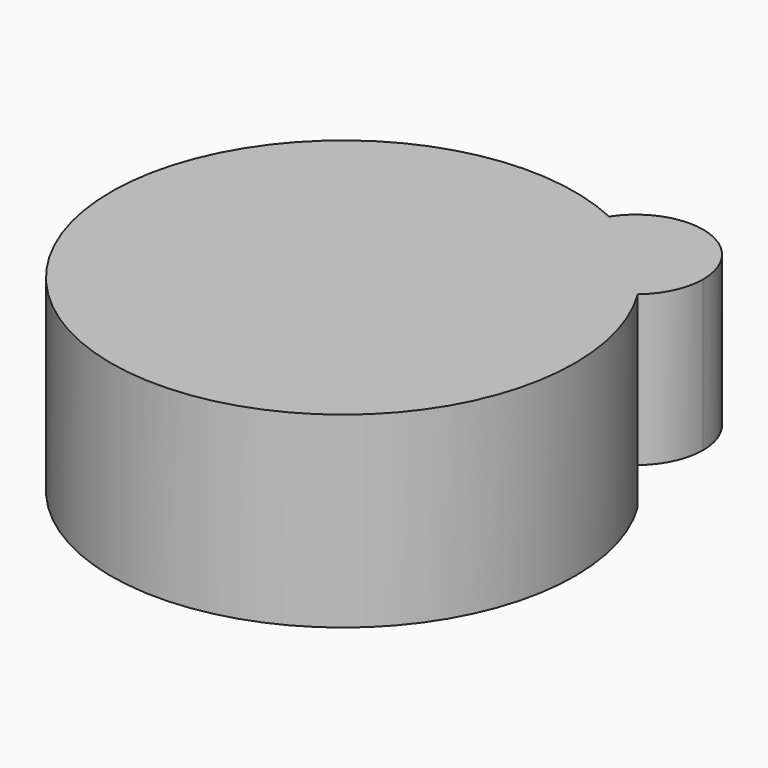
from build123d import *

# Parameters (mm, degrees)
F1_DEPTH = 43.688
F2_DEPTH = 35.052


with BuildPart() as f1:
    # F0 (on Top) → F1 (new body)
    with BuildSketch(Plane.XY):
        with BuildLine():
            ThreePointArc((22.7950800152, 49.0141052374), (-45.5752008544, -29.067150741), (54.0555102198, 0))
            ThreePointArc((54.0555102198, 0), (52.0081957726, 14.7358663675), (46.0213336218, 28.3555115769))
            ThreePointArc((46.0213336218, 28.3555115769), (25.485091226, 28.652637335), (22.7950800152, 49.0141052374))
        make_face()
    extrude(amount=-F1_DEPTH)

    # F0 (on Top) → F2 (join)
    with BuildSketch(Plane.XY):
        with BuildLine():
            ThreePointArc((22.7950800152, 49.0141052374), (-45.5752008544, -29.067150741), (54.0555102198, 0))
            ThreePointArc((54.0555102198, 0), (52.0081957726, 14.7358663675), (46.0213336218, 28.3555115769))
            ThreePointArc((46.0213336218, 28.3555115769), (25.485091226, 28.652637335), (22.7950800152, 49.0141052374))
        make_face()
        with BuildLine():
            ThreePointArc((22.7950800152, 49.0141052374), (25.485091226, 28.652637335), (46.0213336218, 28.3555115769))
            ThreePointArc((46.0213336218, 28.3555115769), (35.9251871181, 40.3903344335), (22.7950800152, 49.0141052374))
        make_face()
        with BuildLine():
            ThreePointArc((22.7950800152, 49.0141052374), (35.9251871181, 40.3903344335), (46.0213336218, 28.3555115769))
            ThreePointArc((46.0213336218, 28.3555115769), (50.1619065693, 33.7506842409), (51.6340742656, 40.3903344335))
            ThreePointArc((51.6340742656, 40.3903344335), (40.4257295687, 55.4407248957), (22.7950800152, 49.0141052374))
        make_face()
    extrude(amount=-F2_DEPTH)


solid = f1.part
